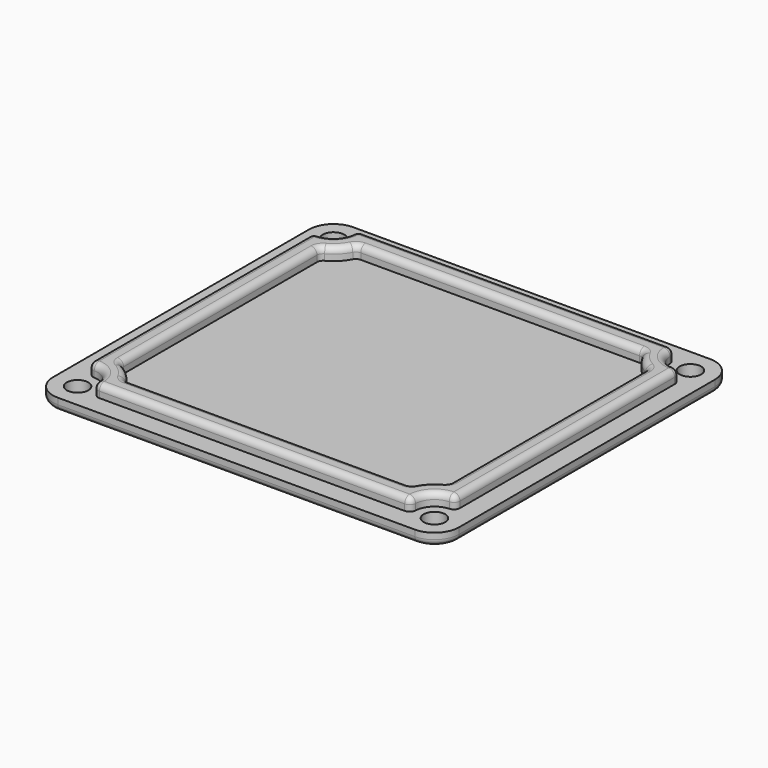
from build123d import *

# Parameters (mm, degrees)
SKETCH_W        = 66
SKETCH_H        = 60
PAD_DEPTH       = 2
FILLET_R        = 4
SKETCH001_R     = 1.75
POCKET_DEPTH    = 2.001
PAD001_DEPTH    = 2
POCKET001_DEPTH = 2
FILLET001_R     = 1
FILLET002_R     = 1
FILLET003_R     = 1
FILLET004_R     = 1


with BuildPart() as part:
    # Sketch → Pad (new body)
    with BuildSketch(Plane.XY):
        Rectangle(SKETCH_W, SKETCH_H)
    extrude(amount=PAD_DEPTH)

    # Fillet
    fillet_edges = [part.edges().sort_by_distance(p)[0] for p in [
        (-33, -30, 1),
        (33, -30, 1),
        (33, 30, 1),
        (-33, 30, 1),
    ]]
    fillet(fillet_edges, radius=FILLET_R)

    # Sketch001 (on Face5 of Fillet) → Pocket (cut, through all)
    with BuildSketch(Plane.XY.offset(2)):
        with Locations((-29, 26)):
            Circle(SKETCH001_R)
        with Locations((29, 26)):
            Circle(SKETCH001_R)
        with Locations((29, -26)):
            Circle(SKETCH001_R)
        with Locations((-29, -26)):
            Circle(SKETCH001_R)
    extrude(amount=-POCKET_DEPTH, mode=Mode.SUBTRACT)

    # Sketch002 (on Face5 of Pocket) → Pad001 (join)
    with BuildSketch(Plane.XY.offset(2)):
        with BuildLine():
            ThreePointArc((-29.8, 22.901613), (-26.737258, 23.737258), (-25.901613, 26.8))
            Line((-25.901613, 26.8), (25.901613, 26.8))
            ThreePointArc((25.901613, 26.8), (26.737258, 23.737258), (29.8, 22.901613))
            Line((29.8, 22.901613), (29.8, -22.901613))
            ThreePointArc((29.8, -22.901613), (26.737258, -23.737258), (25.901613, -26.8))
            Line((-25.901613, -26.8), (25.901613, -26.8))
            ThreePointArc((-25.901613, -26.8), (-26.737258, -23.737258), (-29.8, -22.901613))
            Line((-29.8, 22.901613), (-29.8, -22.901613))
        make_face()
    extrude(amount=PAD001_DEPTH)

    # Sketch003 (on Face23 of Pad001) → Pocket001 (cut)
    with BuildSketch(Plane.XY.offset(4)):
        with BuildLine():
            ThreePointArc((-26.6, 20.283358), (-24.615938, 21.615938), (-23.283358, 23.6))
            Line((23.283358, 23.6), (-23.283358, 23.6))
            ThreePointArc((23.283358, 23.6), (24.615938, 21.615938), (26.6, 20.283358))
            Line((26.6, -20.283358), (26.6, 20.283358))
            ThreePointArc((26.6, -20.283358), (24.615938, -21.615938), (23.283358, -23.6))
            Line((-23.283358, -23.6), (23.283358, -23.6))
            ThreePointArc((-23.283358, -23.6), (-24.615938, -21.615938), (-26.6, -20.283358))
            Line((-26.6, 20.283358), (-26.6, -20.283358))
        make_face()
    extrude(amount=-POCKET001_DEPTH, mode=Mode.SUBTRACT)

    # Fillet001
    fillet001_edges = [part.edges().sort_by_distance(p)[0] for p in [
        (-25.901613, 26.8, 3),
        (-29.8, 22.901613, 3),
        (-29.8, -22.901613, 3),
        (-25.901613, -26.8, 3),
        (25.901613, 26.8, 3),
        (29.8, 22.901613, 3),
        (29.8, -22.901613, 3),
        (25.901613, -26.8, 3),
    ]]
    fillet(fillet001_edges, radius=FILLET001_R)

    # Fillet002
    fillet002_edges = [part.edges().sort_by_distance(p)[0] for p in [
        (-26.6, 20.283358, 3),
        (-23.283358, 23.6, 3),
        (23.283358, 23.6, 3),
        (26.6, 20.283358, 3),
        (26.6, -20.283358, 3),
        (23.283358, -23.6, 3),
        (-26.6, -20.283358, 3),
        (-23.283358, -23.6, 3),
    ]]
    fillet(fillet002_edges, radius=FILLET002_R)

    # Fillet003
    fillet003_edges = [part.edges().sort_by_distance(p)[0] for p in [
        (0, -23.6, 4),
        (-23.167049, -23.457969, 4),
        (23.167049, -23.457969, 4),
        (-24.615938, -21.615938, 4),
        (24.615938, -21.615938, 4),
        (-26.457969, -20.167049, 4),
        (26.457969, -20.167049, 4),
        (-26.6, 0, 4),
        (26.6, 0, 4),
        (-26.457969, 20.167049, 4),
        (26.457969, 20.167049, 4),
        (-24.615938, 21.615938, 4),
        (24.615938, 21.615938, 4),
        (-23.167049, 23.457969, 4),
        (23.167049, 23.457969, 4),
        (0, 23.6, 4),
        (-26.737258, -23.737258, 4),
        (-25.49483, -26.523747, 4),
        (-29.523747, -22.49483, 4),
        (0, -26.8, 4),
        (-29.8, 0, 4),
        (25.49483, -26.523747, 4),
        (-29.523747, 22.49483, 4),
        (26.737258, -23.737258, 4),
        (-26.737258, 23.737258, 4),
        (29.523747, -22.49483, 4),
        (-25.49483, 26.523747, 4),
        (29.8, 0, 4),
        (0, 26.8, 4),
        (29.523747, 22.49483, 4),
        (25.49483, 26.523747, 4),
        (26.737258, 23.737258, 4),
    ]]
    fillet(fillet003_edges, radius=FILLET003_R)

    # Fillet004
    fillet004_edges = [part.edges().sort_by_distance(p)[0] for p in [
        (0, -30, 0),
    ]]
    fillet(fillet004_edges, radius=FILLET004_R)


solid = part.part
